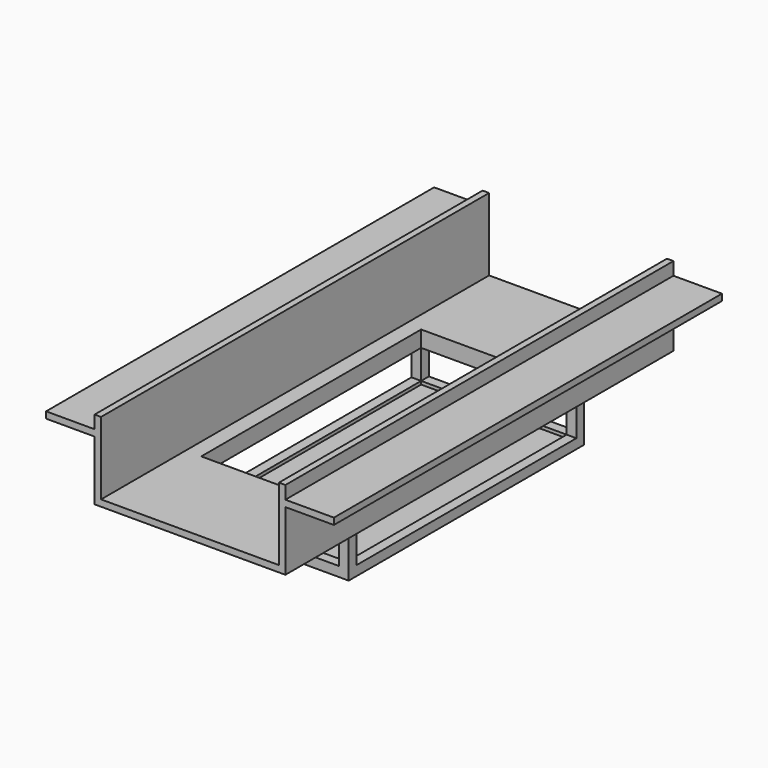
from build123d import *

# Parameters (mm, degrees)
F1_DEPTH = 150
F2_W     = 51
F2_H     = 91
F2_W_2   = 45
F2_H_2   = 85
F3_DEPTH = 17
F4_DEPTH = 15
F5_W     = 85
F5_H     = 9
F6_DEPTH = 75
F7_W     = 45.0000017881
F7_H     = 9.0000017881
F8_DEPTH = 95


with BuildPart() as f1:
    # F0 (on Front) → F1 (new body)
    with BuildSketch(Plane.XZ):
        Polygon((-44.3471273035, 8.3293294263), (-29.3471273035, 8.3293294263), (-29.3471273035, 10.3293294263), (-30.6854649693, 10.3293294263), (-32.7072627842, 10.3293294263), (-44.3471273035, 10.3293294263), align=None)
        Polygon((-29.3471273035, -10.1195359603), (29.6528726965, -10.1195359603), (29.6528726965, 8.3293294263), (29.6528726965, 10.3293294263), (29.6528726965, 14.3293294263), (27.6528726965, 14.3293294263), (27.6528726965, 10.3293294263), (27.6528726965, 9.2171130797), (27.6528726965, -8.1195359603), (-27.3471273035, -8.1195359603), (-27.3471273035, 9.2171130797), (-27.3471273035, 10.3293294263), (-27.3471273035, 14.3293294263), (-29.3471273035, 14.3293294263), (-29.3471273035, 10.3293294263), (-29.3471273035, 8.3293294263), align=None)
        Polygon((29.6528726965, 10.3293294263), (29.6528726965, 8.3293294263), (44.6528726965, 8.3293294263), (44.6528726965, 10.3293294263), (41.5029401332, 10.3293294263), (33.3236008883, 10.3293294263), align=None)
    extrude(amount=-F1_DEPTH)

    # F2 (on face) → F3 (join)
    with BuildSketch(Plane.XY.offset(-8.1195359603)):
        with Locations((0, 75.1699954271)):
            Rectangle(F2_W, F2_H)
        with Locations((0, 75.1699954271)):
            Rectangle(F2_W_2, F2_H_2, mode=Mode.SUBTRACT)
        with Locations((0, 75.1699954271)):
            Rectangle(F2_W_2, F2_H_2)
    extrude(amount=-F3_DEPTH)

    # F2 (on face) → F4 (cut)
    with BuildSketch(Plane.XY.offset(-8.1195359603)):
        with Locations((0, 75.1699954271)):
            Rectangle(F2_W_2, F2_H_2)
    extrude(amount=-F4_DEPTH, mode=Mode.SUBTRACT)

    # F5 (on face) → F6 (cut)
    with BuildSketch(Plane.YZ.offset(25.5)):
        with Locations((75.1699954271, -17.6195359603)):
            Rectangle(F5_W, F5_H)
    extrude(amount=-F6_DEPTH, mode=Mode.SUBTRACT)

    # F7 (on face) → F8 (cut)
    with BuildSketch(Plane.XZ.offset(-29.6699954271)):
        with Locations((0, -17.6195359603)):
            Rectangle(F7_W, F7_H)
    extrude(amount=-F8_DEPTH, mode=Mode.SUBTRACT)


solid = f1.part
